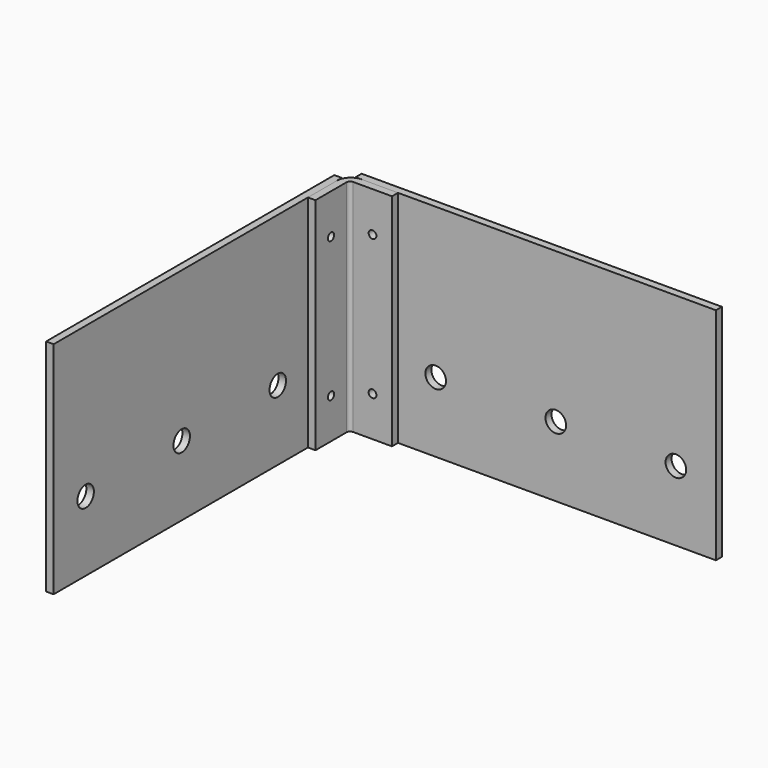
from build123d import *

# Parameters (mm, degrees)
F0_W      = 228.6
F0_H      = 4.7752
F1_DEPTH  = 139.7
F0_W_2    = 4.7752
F0_H_2    = 228.6
F3_DEPTH  = 139.7
F4_R      = 6.5405
F5_DEPTH  = 25.4
F6_R      = 6.5405
F7_DEPTH  = 25.4
F8_R      = 2.4638
F9_DEPTH  = 25.4
F10_R     = 2.4638
F11_DEPTH = 25.4
F12_R     = 2.4638
F13_DEPTH = 25.4
F14_R     = 2.4638
F15_DEPTH = 25.4


with BuildPart() as f1:
    # F0 (on Top) → F1 (new body)
    with BuildSketch(Plane.XY):
        with Locations((123.952, -2.3876)):
            Rectangle(F0_W, F0_H)
    extrude(amount=F1_DEPTH)

    # F6 (on face) → F7 (cut)
    with BuildSketch(Plane.XZ.offset(4.7752)):
        with Locations((212.852, 44.45)):
            Circle(F6_R)
        with Locations((136.652, 44.45)):
            Circle(F6_R)
        with Locations((60.452, 44.45)):
            Circle(F6_R)
    extrude(amount=-F7_DEPTH, mode=Mode.SUBTRACT)


with BuildPart() as f1b:
    # F0 (on Top) → F1, piece 2 (new body)
    with BuildSketch(Plane.XY):
        with Locations((2.3876, -123.952)):
            Rectangle(F0_W_2, F0_H_2)
    extrude(amount=F1_DEPTH)

    # F4 (on face) → F5 (cut)
    with BuildSketch(Plane.YZ.offset(4.7752)):
        with Locations((-212.852, 44.45)):
            Circle(F4_R)
        with Locations((-136.652, 44.45)):
            Circle(F4_R)
        with Locations((-60.452, 44.45)):
            Circle(F4_R)
    extrude(amount=-F5_DEPTH, mode=Mode.SUBTRACT)


with BuildPart() as f3:
    # F2 (on face) → F3 (new body)
    with BuildSketch(Plane.XY.offset(139.7)):
        with BuildLine():
            ThreePointArc((13.4112, -4.7752), (7.3046258377, -7.3046258377), (4.7752, -13.4112))
            Line((4.7752, -13.4112), (4.7752, -36.5252))
            Line((4.7752, -36.5252), (9.5504, -36.5252))
            Line((9.5504, -36.5252), (9.5504, -11.8364))
            ThreePointArc((9.5504, -11.8364), (10.2199538982, -10.2199538982), (11.8364, -9.5504))
            Line((11.8364, -9.5504), (36.5252, -9.5504))
            Line((36.5252, -9.5504), (36.5252, -4.7752))
            Line((36.5252, -4.7752), (13.4112, -4.7752))
        make_face()
    extrude(amount=-F3_DEPTH)


with BuildPart() as f9_tool:
    # F8 (on face) → F9 (new body)
    with BuildSketch(Plane.YZ.offset(9.5504)):
        with Locations((-24.1808, 114.3)):
            Circle(F8_R)
        with Locations((-24.1808, 25.4)):
            Circle(F8_R)
    extrude(amount=-F9_DEPTH)


with BuildPart() as f1b_1:
    add(f1b.part)

    # F9: cut by f9_tool
    add(f9_tool.part, mode=Mode.SUBTRACT)


with BuildPart() as f3_1:
    add(f3.part)

    # F9: cut by f9_tool
    add(f9_tool.part, mode=Mode.SUBTRACT)


with BuildPart() as f11_tool:
    # F10 (on face) → F11 (new body)
    with BuildSketch(Plane.XZ.offset(9.5504)):
        with Locations((24.1808, 114.3)):
            Circle(F10_R)
        with Locations((24.1808, 25.4)):
            Circle(F10_R)
    extrude(amount=-F11_DEPTH)


with BuildPart() as f1_1:
    add(f1.part)

    # F11: cut by f11_tool
    add(f11_tool.part, mode=Mode.SUBTRACT)

    # F12 (on face) → F13 (cut)
    with BuildSketch(Plane.YZ.offset(4.7752)):
        with Locations((-24.1808, 114.3)):
            Circle(F12_R)
        with Locations((-24.1808, 25.4)):
            Circle(F12_R)
    extrude(amount=-F13_DEPTH, mode=Mode.SUBTRACT)

    # F14 (on face) → F15 (cut)
    with BuildSketch(Plane.XZ.offset(4.7752)):
        with Locations((24.1808, 114.3)):
            Circle(F14_R)
        with Locations((24.1808, 25.4)):
            Circle(F14_R)
    extrude(amount=-F15_DEPTH, mode=Mode.SUBTRACT)


with BuildPart() as f3_2:
    add(f3_1.part)

    # F11: cut by f11_tool
    add(f11_tool.part, mode=Mode.SUBTRACT)


solid = Compound([f1b_1.part, f1_1.part, f3_2.part])
